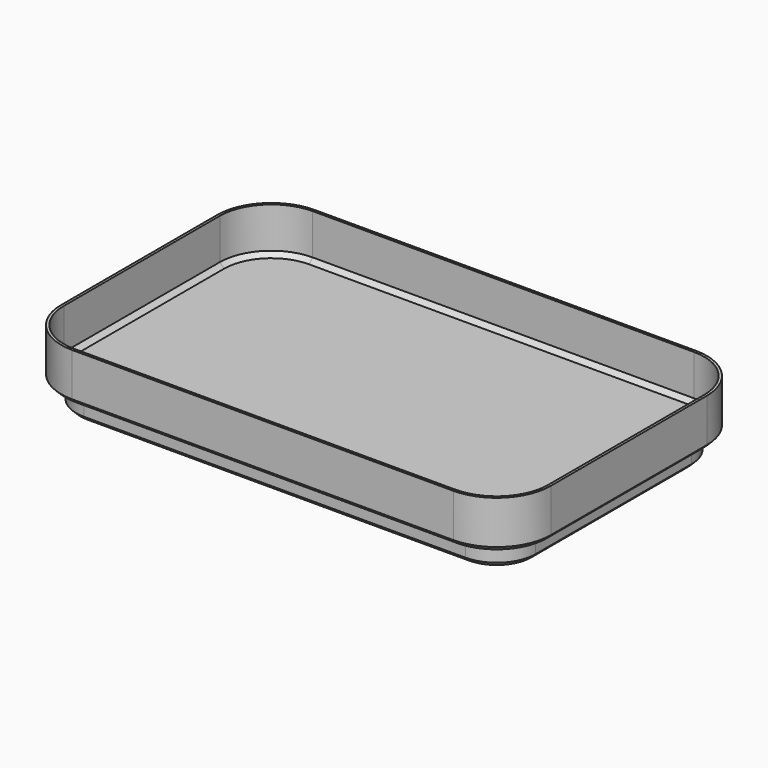
from build123d import *

# Parameters (mm, degrees)
F1_DEPTH = 22
F2_T     = -1.2
F3_DEPTH = 10
F4_SIZE  = 2
F5_SIZE  = 2


with BuildPart() as f1:
    # F0 (on Top) → F1 (new body)
    with BuildSketch(Plane.XY):
        with BuildLine():
            ThreePointArc((113, 45), (105.6776695297, 62.6776695297), (88, 70))
            Line((88, 70), (-88, 70))
            ThreePointArc((-88, 70), (-105.6776695297, 62.6776695297), (-113, 45))
            Line((-113, 45), (-113, -45))
            ThreePointArc((-113, -45), (-105.6776695297, -62.6776695297), (-88, -70))
            Line((-88, -70), (88, -70))
            ThreePointArc((88, -70), (105.6776695297, -62.6776695297), (113, -45))
            Line((113, -45), (113, 45))
        make_face()
        with BuildLine():
            ThreePointArc((106, -45), (100.7279220614, -57.7279220614), (88, -63))
            Line((88, -63), (-88, -63))
            ThreePointArc((-88, -63), (-100.7279220614, -57.7279220614), (-106, -45))
            Line((-106, -45), (-106, 45))
            ThreePointArc((-106, 45), (-100.7279220614, 57.7279220614), (-88, 63))
            Line((-88, 63), (88, 63))
            ThreePointArc((88, 63), (100.7279220614, 57.7279220614), (106, 45))
            Line((106, 45), (106, -45))
        make_face(mode=Mode.SUBTRACT)
        with BuildLine():
            Line((-88, -63), (88, -63))
            ThreePointArc((88, -63), (100.7279220614, -57.7279220614), (106, -45))
            Line((106, -45), (106, 45))
            ThreePointArc((106, 45), (100.7279220614, 57.7279220614), (88, 63))
            Line((88, 63), (-88, 63))
            ThreePointArc((-88, 63), (-100.7279220614, 57.7279220614), (-106, 45))
            Line((-106, 45), (-106, -45))
            ThreePointArc((-106, -45), (-100.7279220614, -57.7279220614), (-88, -63))
        make_face()
        with BuildLine():
            ThreePointArc((103.6, -45), (99.0308657865, -56.0308657865), (88, -60.6))
            Line((88, -60.6), (-88, -60.6))
            ThreePointArc((-88, -60.6), (-99.0308657865, -56.0308657865), (-103.6, -45))
            Line((-103.6, -45), (-103.6, 45))
            ThreePointArc((-103.6, 45), (-99.0308657865, 56.0308657865), (-88, 60.6))
            Line((-88, 60.6), (88, 60.6))
            ThreePointArc((88, 60.6), (99.0308657865, 56.0308657865), (103.6, 45))
            Line((103.6, 45), (103.6, -45))
        make_face(mode=Mode.SUBTRACT)
        with BuildLine():
            Line((-88, -60.6), (88, -60.6))
            ThreePointArc((88, -60.6), (99.0308657865, -56.0308657865), (103.6, -45))
            Line((103.6, -45), (103.6, 45))
            ThreePointArc((103.6, 45), (99.0308657865, 56.0308657865), (88, 60.6))
            Line((88, 60.6), (-88, 60.6))
            ThreePointArc((-88, 60.6), (-99.0308657865, 56.0308657865), (-103.6, 45))
            Line((-103.6, 45), (-103.6, -45))
            ThreePointArc((-103.6, -45), (-99.0308657865, -56.0308657865), (-88, -60.6))
        make_face()
    extrude(amount=F1_DEPTH)

    # F2
    f2_openings = [f1.faces().sort_by_distance(p)[0] for p in [
        (0, 0, 22),
    ]]
    offset(amount=F2_T, openings=f2_openings)

    # F0 (on Top) → F3 (join)
    with BuildSketch(Plane.XY):
        with BuildLine():
            Line((-88, -63), (88, -63))
            ThreePointArc((88, -63), (100.7279220614, -57.7279220614), (106, -45))
            Line((106, -45), (106, 45))
            ThreePointArc((106, 45), (100.7279220614, 57.7279220614), (88, 63))
            Line((88, 63), (-88, 63))
            ThreePointArc((-88, 63), (-100.7279220614, 57.7279220614), (-106, 45))
            Line((-106, 45), (-106, -45))
            ThreePointArc((-106, -45), (-100.7279220614, -57.7279220614), (-88, -63))
        make_face()
        with BuildLine():
            ThreePointArc((103.6, -45), (99.0308657865, -56.0308657865), (88, -60.6))
            Line((88, -60.6), (-88, -60.6))
            ThreePointArc((-88, -60.6), (-99.0308657865, -56.0308657865), (-103.6, -45))
            Line((-103.6, -45), (-103.6, 45))
            ThreePointArc((-103.6, 45), (-99.0308657865, 56.0308657865), (-88, 60.6))
            Line((-88, 60.6), (88, 60.6))
            ThreePointArc((88, 60.6), (99.0308657865, 56.0308657865), (103.6, 45))
            Line((103.6, 45), (103.6, -45))
        make_face(mode=Mode.SUBTRACT)
        with BuildLine():
            Line((-88, -60.6), (88, -60.6))
            ThreePointArc((88, -60.6), (99.0308657865, -56.0308657865), (103.6, -45))
            Line((103.6, -45), (103.6, 45))
            ThreePointArc((103.6, 45), (99.0308657865, 56.0308657865), (88, 60.6))
            Line((88, 60.6), (-88, 60.6))
            ThreePointArc((-88, 60.6), (-99.0308657865, 56.0308657865), (-103.6, 45))
            Line((-103.6, 45), (-103.6, -45))
            ThreePointArc((-103.6, -45), (-99.0308657865, -56.0308657865), (-88, -60.6))
        make_face()
    extrude(amount=-F3_DEPTH)

    # F4
    f4_edges = [f1.edges().sort_by_distance(p)[0] for p in [
        (0, -63, -10),
        (100.727922, -57.727922, -10),
        (106, 0, -10),
        (100.727922, 57.727922, -10),
        (0, 63, -10),
        (-100.727922, 57.727922, -10),
        (-106, 0, -10),
        (-100.727922, -57.727922, -10),
        (-113, 0, 0),
        (-105.67767, -62.67767, 0),
        (0, -70, 0),
        (-105.67767, 62.67767, 0),
        (0, 70, 0),
        (105.67767, 62.67767, 0),
        (105.67767, -62.67767, 0),
        (113, 0, 0),
    ]]
    chamfer(f4_edges, length=F4_SIZE)

    # F5
    f5_edges = [f1.edges().sort_by_distance(p)[0] for p in [
        (104.829141, 61.829141, 1.2),
        (0, 68.8, 1.2),
        (-104.829141, 61.829141, 1.2),
        (-111.8, 0, 1.2),
        (-104.829141, -61.829141, 1.2),
        (0, -68.8, 1.2),
        (104.829141, -61.829141, 1.2),
        (111.8, 0, 1.2),
    ]]
    chamfer(f5_edges, length=F5_SIZE)


solid = f1.part
